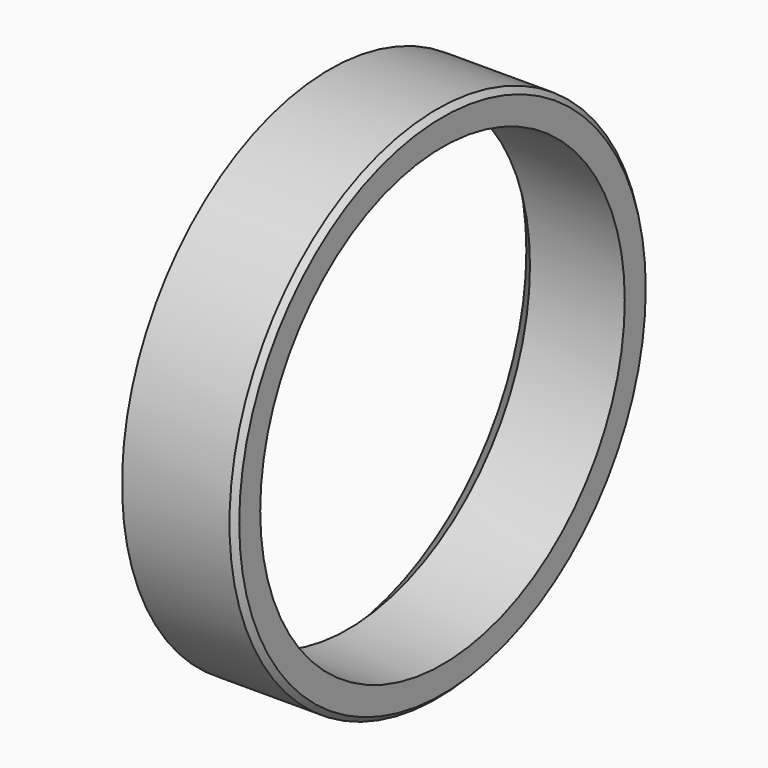
from build123d import *

# Parameters (mm, degrees)
F0_R     = 36.5
F0_R_2   = 32.05
F1_DEPTH = 15.875
F2_SIZE  = 0.762
F3_SIZE  = 2.54


with BuildPart() as f1:
    # F0 (on Right) → F1 (new body)
    with BuildSketch(Plane.YZ):
        Circle(F0_R)
        Circle(F0_R_2, mode=Mode.SUBTRACT)
    extrude(amount=F1_DEPTH)

    # F2
    f2_edges = [f1.edges().sort_by_distance(p)[0] for p in [
        (15.875, -36.5, 0),
    ]]
    chamfer(f2_edges, length=F2_SIZE)

    # F3
    f3_edges = [f1.edges().sort_by_distance(p)[0] for p in [
        (0, -32.05, 0),
    ]]
    chamfer(f3_edges, length=F3_SIZE)


solid = f1.part
